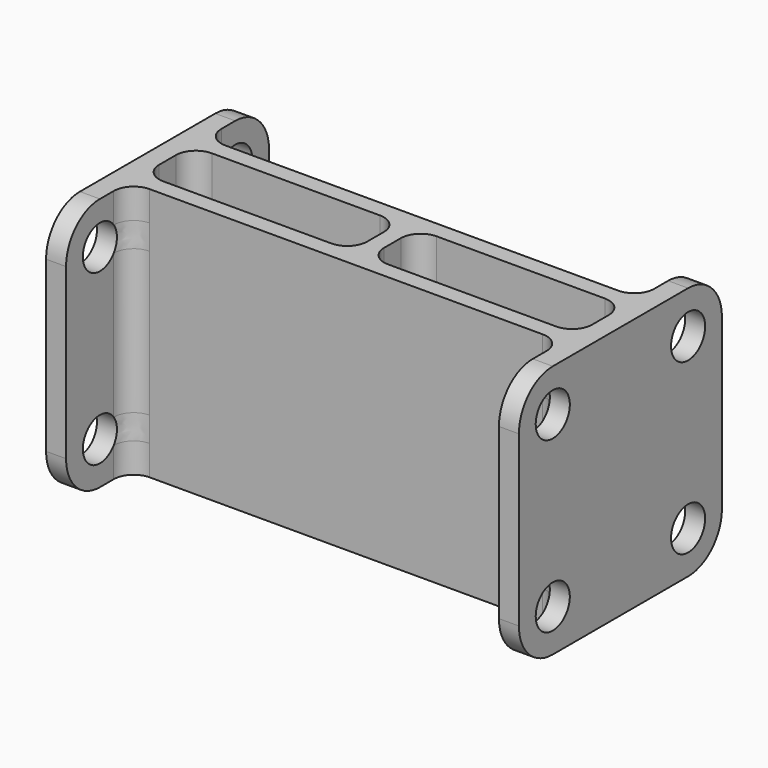
from build123d import *

# Parameters (mm, degrees)
SKETCH_W     = 31.23
SKETCH_H     = 9.12
PAD_DEPTH    = 38.1
SKETCH001_R  = 3.2
POCKET_DEPTH = 71
FILLET_R     = 6.35
FILLET001_R  = 3


with BuildPart() as part:
    # Sketch → Pad (new body)
    with BuildSketch(Plane.XY):
        Polygon((-32.5, 7.1), (32.5, 7.1), (32.5, 19.05), (35.5, 19.05), (35.5, -19.05), (32.5, -19.05), (32.5, -7.1), (-32.5, -7.1), (-32.5, -19.05), (-35.5, -19.05), (-35.5, 19.05), (-32.5, 19.05), align=None)
        with Locations((16.885, 0)):
            Rectangle(SKETCH_W, SKETCH_H, mode=Mode.SUBTRACT)
        with Locations((-16.885, 0)):
            Rectangle(SKETCH_W, SKETCH_H, mode=Mode.SUBTRACT)
    extrude(amount=PAD_DEPTH)

    # Sketch001 (on Face10 of Pad) → Pocket (cut)
    with BuildSketch(Plane(origin=(-35.5, 0, 0), x_dir=(0, -1, 0), z_dir=(-1, 0, 0))):
        with Locations((12.7, 31.75)):
            Circle(SKETCH001_R)
        with Locations((12.7, 6.35)):
            Circle(SKETCH001_R)
        with Locations((-12.7, 6.35)):
            Circle(SKETCH001_R)
        with Locations((-12.7, 31.75)):
            Circle(SKETCH001_R)
    extrude(amount=-POCKET_DEPTH, mode=Mode.SUBTRACT)

    # Fillet
    fillet_edges = [part.edges().sort_by_distance(p)[0] for p in [
        (-34, 19.05, 0),
        (-34, -19.05, 0),
        (34, -19.05, 38.1),
        (34, 19.05, 0),
        (34, -19.05, 0),
        (34, 19.05, 38.1),
        (-34, 19.05, 38.1),
        (-34, -19.05, 38.1),
    ]]
    fillet(fillet_edges, radius=FILLET_R)

    # Fillet001
    fillet001_edges = [part.edges().sort_by_distance(p)[0] for p in [
        (-1.27, -4.56, 19.05),
        (-1.27, 4.56, 19.05),
        (32.5, 4.56, 19.05),
        (32.5, -4.56, 19.05),
        (1.27, -4.56, 19.05),
        (1.27, 4.56, 19.05),
        (-32.5, -4.56, 19.05),
        (-32.5, 4.56, 19.05),
        (-32.5, -7.1, 19.05),
        (-32.5, 7.1, 19.05),
        (32.5, 7.1, 19.05),
        (32.5, -7.1, 19.05),
    ]]
    fillet(fillet001_edges, radius=FILLET001_R)


solid = part.part
